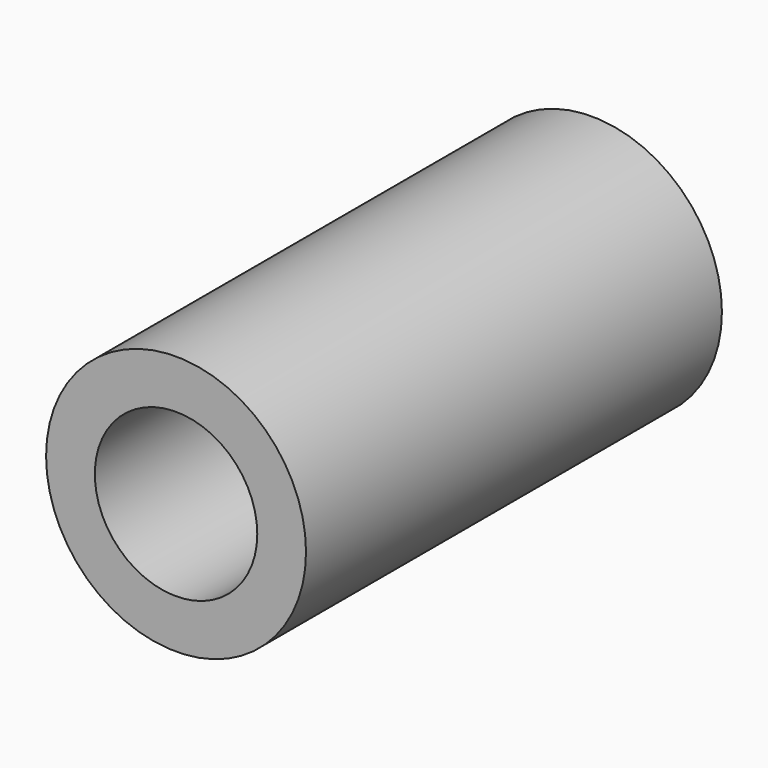
from build123d import *

# Parameters (mm, degrees)
F0_R     = 25.4
F1_DEPTH = 101.6
F2_R     = 15.875
F3_DEPTH = 50.8
F4_R     = 4.960938
F5_DEPTH = 101.601
F6_R     = 3.175
F7_DEPTH = 25.4
F8_R     = 4.7625
F9_DEPTH = 127


with BuildPart() as f1:
    # F0 (on Front) → F1 (new body)
    with BuildSketch(Plane.XZ):
        Circle(F0_R)
    extrude(amount=-F1_DEPTH)

    # F2 (on Front) → F3 (cut)
    with BuildSketch(Plane.XZ):
        Circle(F2_R)
    extrude(amount=-F3_DEPTH, mode=Mode.SUBTRACT)

    # F4 (on Front) → F5 (cut, through all)
    with BuildSketch(Plane.XZ):
        Circle(F4_R)
    extrude(amount=-F5_DEPTH, mode=Mode.SUBTRACT)

    # F6 (on Top) → F7 (cut)
    with BuildSketch(Plane.XY):
        with Locations((0, 50.8)):
            Circle(F6_R)
    extrude(amount=-F7_DEPTH, mode=Mode.SUBTRACT)

    # F8 (on Top) → F9 (cut)
    with BuildSketch(Plane.XY):
        with Locations((0, 90.4875)):
            Circle(F8_R)
    extrude(amount=-F9_DEPTH, mode=Mode.SUBTRACT)


solid = f1.part
